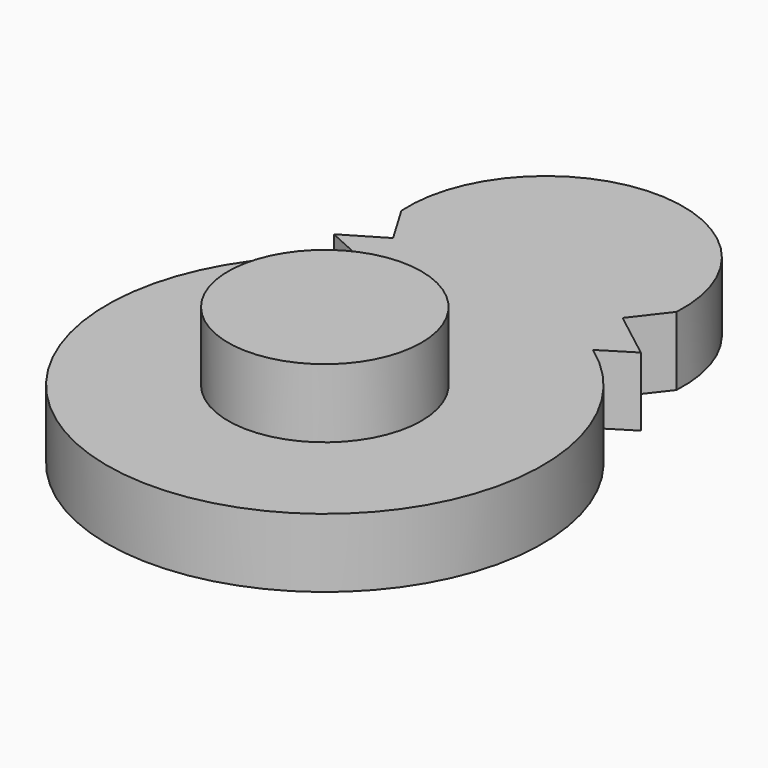
from build123d import *

# Parameters (mm, degrees)
F1_DEPTH = 12.7
F2_R     = 17.849689
F3_DEPTH = 12.7


with BuildPart() as f1:
    # F0 (on Top) → F1 (new body)
    with BuildSketch(Plane.XY):
        with BuildLine():
            Line((-28.410337, -22.20808), (-21.003519, -25.556517))
            ThreePointArc((-21.003519, -25.556517), (-1.3813, -99.988264), (23.307836, -27.080357))
            Line((23.307836, -27.080357), (29.21063, -23.408518))
            Line((29.21063, -23.408518), (20.407428, -16.606042))
            Line((20.407428, -16.606042), (25.300281, -10.274116))
            ThreePointArc((25.300281, -10.274116), (-0.120498, 16.634697), (-25.401866, -10.405138))
            Line((-25.401866, -10.405138), (-21.003519, -17.806478))
            Line((-21.003519, -17.806478), (-28.410337, -22.20808))
        make_face()
    extrude(amount=F1_DEPTH)

    # F2 (on face) → F3 (join)
    with BuildSketch(Plane.XY.offset(12.7)):
        with Locations((0, -59.821769)):
            Circle(F2_R)
    extrude(amount=F3_DEPTH)


solid = f1.part
